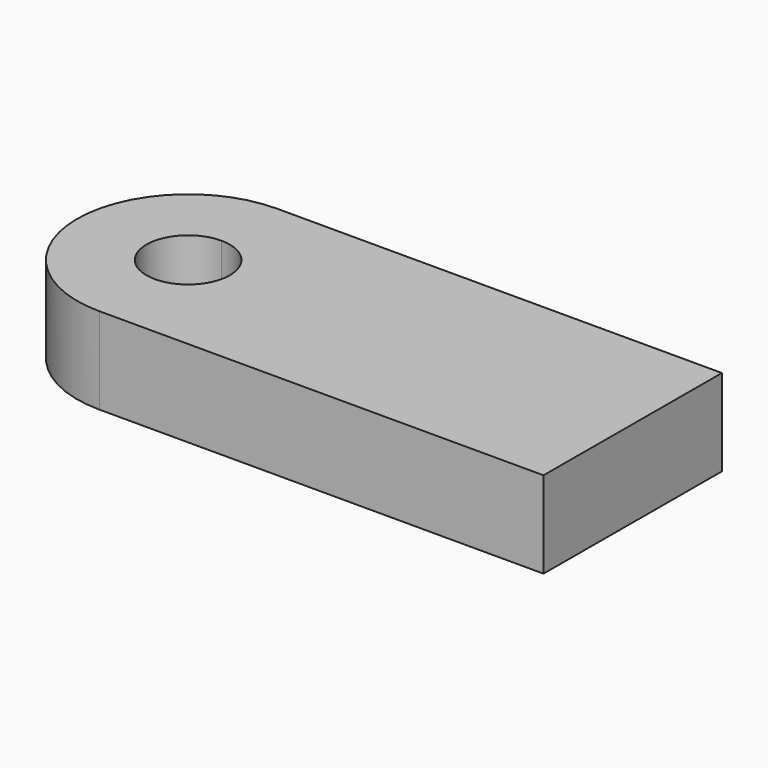
from build123d import *

# Parameters (mm, degrees)
F1_DEPTH = 19.812


with BuildPart() as f1:
    # F0 (on Top) → F1 (new body)
    with BuildSketch(Plane.XY):
        with BuildLine():
            Line((-50.519105, 21.024589), (-50.519105, 36.899451))
            ThreePointArc((-50.519105, 36.899451), (-75.918967, 11.499589), (-50.519105, -13.900273))
            Line((-50.519105, -13.900273), (-50.519105, 1.974589))
            ThreePointArc((-50.519105, 1.974589), (-60.044105, 11.499589), (-50.519105, 21.024589))
        make_face()
        with BuildLine():
            Line((51.248314, 36.899451), (-50.519105, 36.899451))
            Line((-50.519105, 36.899451), (-50.519105, 21.024589))
            ThreePointArc((-50.519105, 21.024589), (-43.783913, 18.234781), (-40.994105, 11.499589))
            ThreePointArc((-40.994105, 11.499589), (-43.783913, 4.764396), (-50.519105, 1.974589))
            Line((-50.519105, 1.974589), (-50.519105, -13.900273))
            Line((-50.519105, -13.900273), (51.080895, -13.900273))
            Line((51.080895, -13.900273), (51.248314, 36.899451))
        make_face()
    extrude(amount=F1_DEPTH)


solid = f1.part
